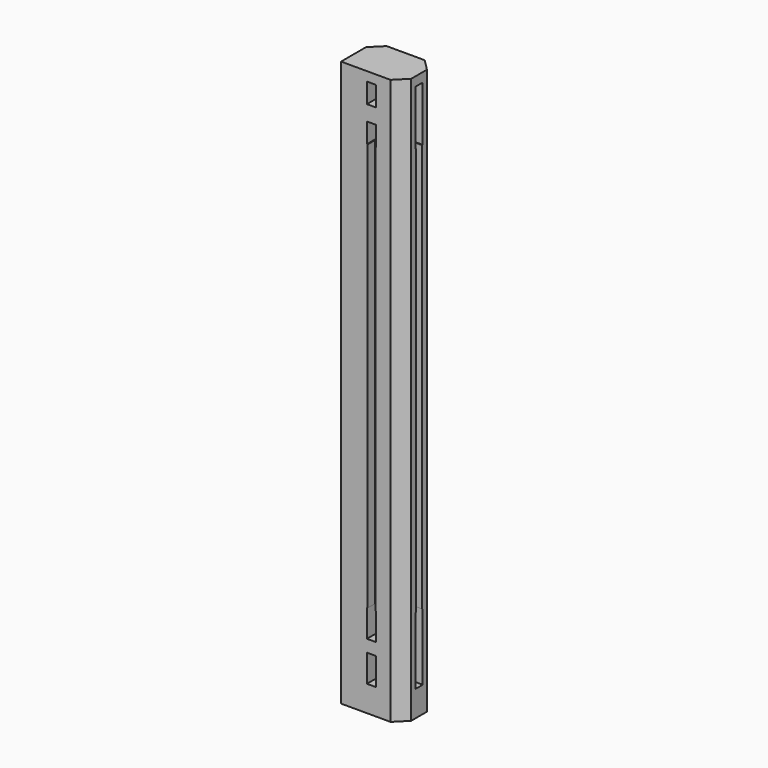
from build123d import *

# Parameters (mm, degrees)
F0_W     = 63.5
F0_H     = 44.45
F1_DEPTH = 588.9625
F3_DEPTH = 25.4
F2_W     = 7.9375
F2_H     = 425.45
F4_DEPTH = 9.525
F6_DEPTH = 9.525
F5_W     = 9.525
F5_H     = 20.7645
F5_H_2   = 28.575
F7_DEPTH = 44.451
F8_SIZE  = 11.90625


with BuildPart() as f1:
    # F0 (on Top) → F1 (new body)
    with BuildSketch(Plane.XY):
        with Locations((31.75, 22.225)):
            Rectangle(F0_W, F0_H)
    extrude(amount=F1_DEPTH)

    # F2 (on face) → F3 (cut)
    with BuildSketch(Plane.YZ.offset(63.5)):
        Polygon((26.9875, 579.4375), (17.4625, 579.4375), (17.4625, 522.2875), (18.25625, 522.2875), (26.19375, 522.2875), (26.9875, 522.2875), align=None)
        Polygon((26.19375, 96.8375), (18.25625, 96.8375), (17.4625, 96.8375), (17.4625, 26.9875), (26.9875, 26.9875), (26.9875, 96.8375), align=None)
    extrude(amount=-F3_DEPTH, mode=Mode.SUBTRACT)

    # F2 (on face) → F4 (cut)
    with BuildSketch(Plane.YZ.offset(63.5)):
        with Locations((22.225, 309.5625)):
            Rectangle(F2_W, F2_H)
    extrude(amount=-F4_DEPTH, mode=Mode.SUBTRACT)

    # F5 (on face) → F6 (cut)
    with BuildSketch(Plane.XZ):
        Polygon((35.71875, 522.0335), (28.575, 522.0335), (27.78125, 522.0335), (27.78125, 96.8375), (35.71875, 96.8375), align=None)
    extrude(amount=-F6_DEPTH, mode=Mode.SUBTRACT)

    # F5 (on face) → F7 (cut, through all)
    with BuildSketch(Plane.XZ):
        with Locations((31.75, 569.05525)):
            Rectangle(F5_W, F5_H)
        Polygon((27.78125, 522.0335), (28.575, 522.0335), (35.71875, 522.0335), (36.5125, 522.0335), (36.5125, 542.798), (26.9875, 542.798), (26.9875, 522.0335), align=None)
        Polygon((35.71875, 96.8375), (27.78125, 96.8375), (26.9875, 96.8375), (26.9875, 68.2625), (36.5125, 68.2625), (36.5125, 96.8375), align=None)
        with Locations((31.75, 41.275)):
            Rectangle(F5_W, F5_H_2)
    extrude(amount=-F7_DEPTH, mode=Mode.SUBTRACT)

    # F8
    f8_edges = [f1.edges().sort_by_distance(p)[0] for p in [
        (63.5, 44.45, 294.48125),
        (0, 44.45, 294.48125),
        (63.5, 0, 294.48125),
    ]]
    chamfer(f8_edges, length=F8_SIZE)


solid = f1.part
